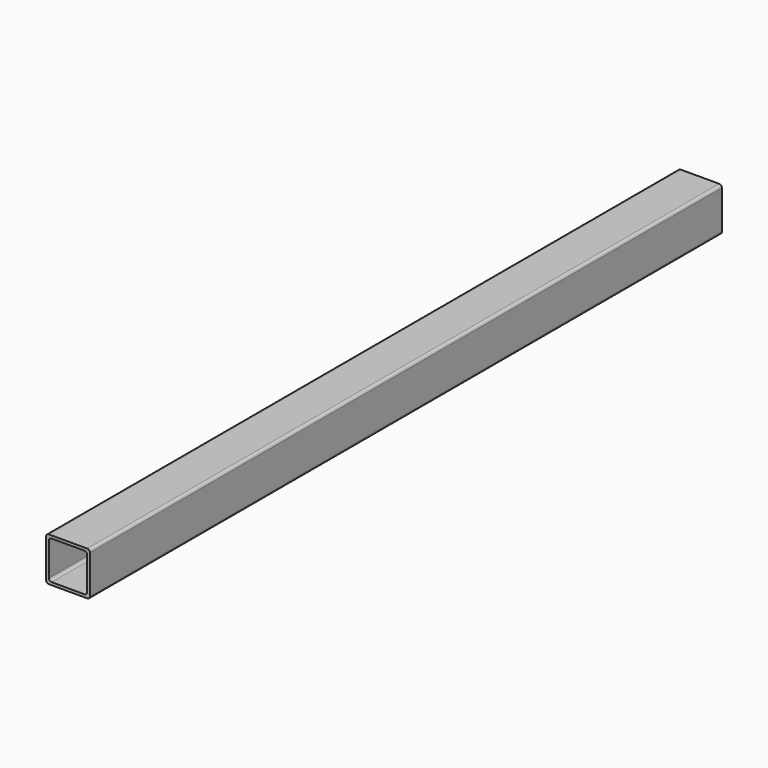
from build123d import *

# Parameters (mm, degrees)
F0_W     = 101.6
F0_H     = 101.6
F0_W_2   = 88.9
F0_H_2   = 88.9
F1_DEPTH = 914.4
F2_R     = 6.35


with BuildPart() as f1:
    # F0 (on Front) → F1 (new body, symmetric)
    with BuildSketch(Plane.XZ):
        Rectangle(F0_W, F0_H)
        Rectangle(F0_W_2, F0_H_2, mode=Mode.SUBTRACT)
    extrude(amount=F1_DEPTH, both=True)

    # F2
    f2_edges = [f1.edges().sort_by_distance(p)[0] for p in [
        (-50.8, 0, 50.8),
        (50.8, 0, 50.8),
        (44.45, 0, -44.45),
        (-44.45, 0, -44.45),
        (44.45, 0, 44.45),
        (-44.45, 0, 44.45),
        (50.8, 0, -50.8),
        (-50.8, 0, -50.8),
    ]]
    fillet(f2_edges, radius=F2_R)


solid = f1.part
